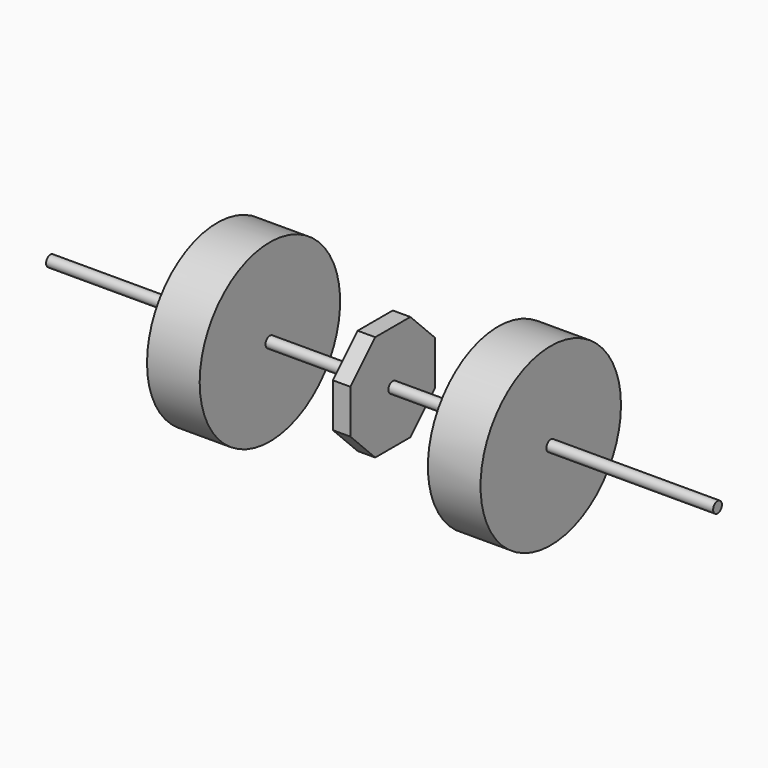
from build123d import *

# Parameters (mm, degrees)
F1_DEPTH  = 25.4
F2_R      = 7.9375
F3_DEPTH  = 152.4
F4_R      = 127
F5_DEPTH  = 76.2
F6_R      = 7.9375
F7_DEPTH  = 241.3
F8_R      = 7.9375
F9_DEPTH  = 152.4
F10_R     = 127
F11_DEPTH = 76.2
F12_R     = 7.9375
F13_DEPTH = 241.3


with BuildPart() as f1:
    # F0 (on Right) → F1 (new body)
    with BuildSketch(Plane.YZ):
        Polygon((44.901281, 44.901281), (0, 0), (0, -63.5), (44.901281, -108.401281), (108.401281, -108.401281), (153.302561, -63.5), (153.302561, 0), (108.401281, 44.901281), align=None)
    extrude(amount=F1_DEPTH)

    # F2 (on face) → F3 (join)
    with BuildSketch(Plane.YZ.offset(25.4)):
        with Locations((76.651281, -31.75)):
            Circle(F2_R)
    extrude(amount=F3_DEPTH)

    # F4 (on face) → F5 (join)
    with BuildSketch(Plane.YZ.offset(177.8)):
        with Locations((76.651281, -31.75)):
            Circle(F4_R)
    extrude(amount=F5_DEPTH)

    # F6 (on face) → F7 (join)
    with BuildSketch(Plane.YZ.offset(254)):
        with Locations((76.651281, -31.75)):
            Circle(F6_R)
    extrude(amount=F7_DEPTH)

    # F8 (on face) → F9 (join)
    with BuildSketch(Plane(origin=(0, 0, 0), x_dir=(0, -1, 0), z_dir=(-1, 0, 0))):
        with Locations((-76.651281, -31.75)):
            Circle(F8_R)
    extrude(amount=F9_DEPTH)

    # F10 (on face) → F11 (join)
    with BuildSketch(Plane(origin=(-152.4, 0, 0), x_dir=(0, -1, 0), z_dir=(-1, 0, 0))):
        with Locations((-76.651281, -31.75)):
            Circle(F10_R)
    extrude(amount=F11_DEPTH)

    # F12 (on face) → F13 (join)
    with BuildSketch(Plane(origin=(-228.6, 0, 0), x_dir=(0, -1, 0), z_dir=(-1, 0, 0))):
        with Locations((-76.651281, -31.75)):
            Circle(F12_R)
    extrude(amount=F13_DEPTH)


solid = f1.part
